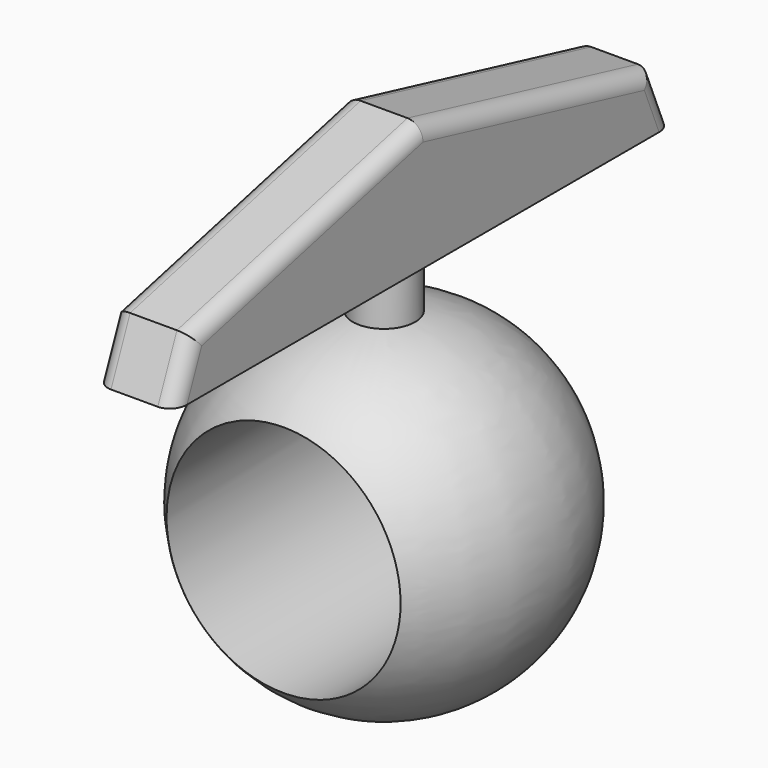
from build123d import *

# Parameters (mm, degrees)
F3_D     = 19.05
F3_DEPTH = 25.4
F4_D     = 19.05
F4_DEPTH = 25.4
F6_DEPTH = 3.175
F7_R     = 1.27


with BuildPart() as f2:
    # F0 (on Front) → F2 (revolve)
    with BuildSketch(Plane.XZ):
        with BuildLine():
            ThreePointArc((2.54, 13.73715), (1.275325, 13.911666), (0, 13.97))
            Line((0, 13.97), (0, -13.97))
            ThreePointArc((0, -13.97), (13.911666, -1.275325), (2.54, 13.73715))
        make_face()
        with BuildLine():
            Line((0, 17.78), (0, 13.97))
            ThreePointArc((0, 13.97), (1.275325, 13.911666), (2.54, 13.73715))
            Line((2.54, 13.73715), (2.54, 17.78))
            Line((2.54, 17.78), (0, 17.78))
        make_face()
    revolve(axis=Axis((0, 0, 6.35), (0, 0, 1)))

    # F3
    with Locations(Plane.XZ):
        with Locations((0, 0)):
            Hole(F3_D / 2, depth=F3_DEPTH)

    # F4
    with Locations(Plane(origin=(0, 0, 0), x_dir=(1, 0, 0), z_dir=(0, 1, 0))):
        with Locations((0, 0)):
            Hole(F4_D / 2, depth=F4_DEPTH)

    # F5 (on Right) → F6 (join, symmetric)
    with BuildSketch(Plane.YZ):
        Polygon((0, 28.143921), (0, 17.78), (25.4, 17.78), (23.45404, 22.472509), align=None)
        Polygon((-25.4, 17.78), (0, 17.78), (0, 28.143921), (-23.45404, 22.472509), align=None)
    extrude(amount=F6_DEPTH, both=True)

    # F7
    f7_edges = [f2.edges().sort_by_distance(p)[0] for p in [
        (3.175, -11.72702, 25.308215),
        (-3.175, -11.72702, 25.308215),
        (3.175, 11.72702, 25.308215),
        (-3.175, 11.72702, 25.308215),
        (3.175, 24.42702, 20.126254),
        (3.175, -24.42702, 20.126254),
        (-3.175, -24.42702, 20.126254),
        (-3.175, 24.42702, 20.126254),
    ]]
    fillet(f7_edges, radius=F7_R)


solid = f2.part
